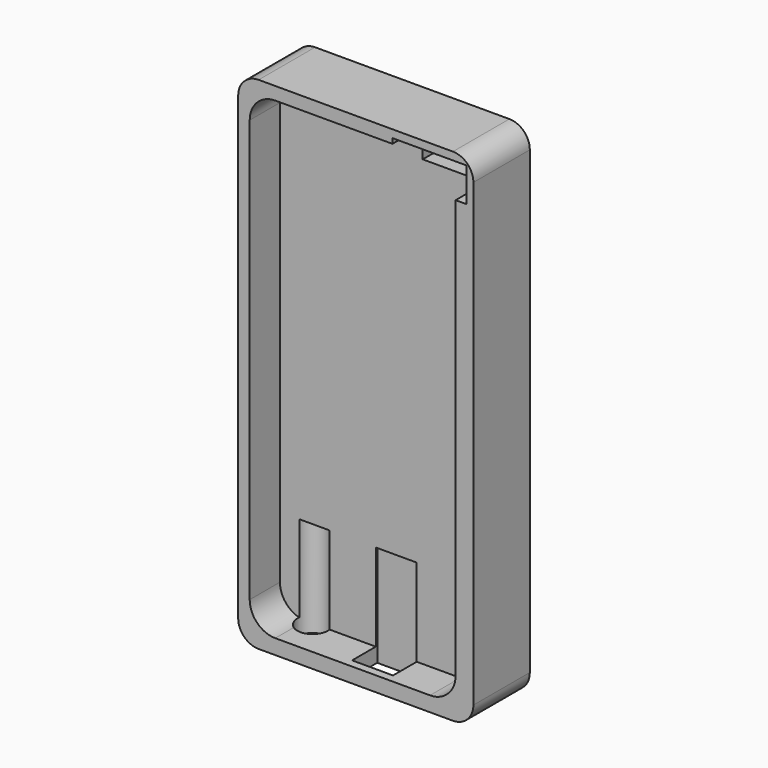
from build123d import *

# Parameters (mm, degrees)
F0_W     = 58.42
F0_H     = 124.46
F1_DEPTH = 17.526
F3_DEPTH = 9.398
F6_R     = 5.08
F4_W     = 18.451236
F4_H     = 8.469313
F7_DEPTH = 25.4
F5_R     = 3.81
F5_W     = 10.16
F5_H     = 7.80597
F8_DEPTH = 25.4


with BuildPart() as f1:
    # F0 (on Front) → F1 (new body)
    with BuildSketch(Plane.XZ):
        with Locations((29.21, 62.23)):
            Rectangle(F0_W, F0_H)
    extrude(amount=F1_DEPTH)

    # F2 (on face) → F3 (cut)
    with BuildSketch(Plane.XZ.offset(17.526)):
        with BuildLine():
            ThreePointArc((2.862678, 10.059572), (4.72255, 5.569444), (9.212678, 3.709572))
            Line((9.212678, 3.709572), (47.659166, 3.709572))
            ThreePointArc((47.659166, 3.709572), (52.149294, 5.569444), (54.009166, 10.059572))
            Line((54.009166, 10.059572), (54.009166, 114.920157))
            ThreePointArc((54.009166, 114.920157), (52.149294, 119.410285), (47.659166, 121.270157))
            Line((47.659166, 121.270157), (9.212678, 121.270157))
            ThreePointArc((9.212678, 121.270157), (4.72255, 119.410285), (2.862678, 114.920157))
            Line((2.862678, 114.920157), (2.862678, 10.059572))
        make_face()
    extrude(amount=-F3_DEPTH, mode=Mode.SUBTRACT)

    # F6
    f6_edges = [f1.edges().sort_by_distance(p)[0] for p in [
        (0, -8.763, 124.46),
        (58.42, -8.763, 124.46),
        (58.42, -8.763, 0),
        (0, -8.763, 0),
    ]]
    fillet(f6_edges, radius=F6_R)

    # F4 (on Front) → F7 (cut)
    with BuildSketch(Plane.XZ):
        with Locations((47.542691, 118.296183)):
            Rectangle(F4_W, F4_H)
    extrude(amount=F7_DEPTH, mode=Mode.SUBTRACT)

    # F5 (on face) → F8 (cut)
    with BuildSketch(Plane(origin=(0, 0, 0), x_dir=(1, 0, 0), z_dir=(0, 0, -1))):
        with Locations((11.43, 8.70138)):
            Circle(F5_R)
        with Locations((31.753567, 11.591015)):
            Rectangle(F5_W, F5_H)
    extrude(amount=-F8_DEPTH, mode=Mode.SUBTRACT)


solid = f1.part
